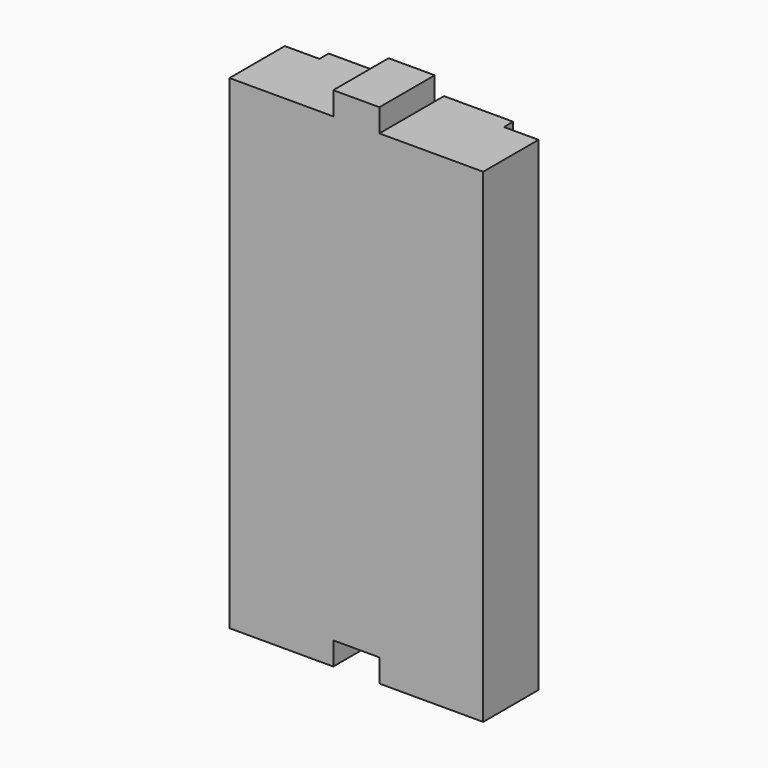
from build123d import *

# Parameters (mm, degrees)
F1_DEPTH = 1066.8
F3_W     = 101.6
F3_H     = 50.8
F4_DEPTH = 152.4
F5_W     = 101.6
F5_H     = 50.8
F6_DEPTH = 177.801


with BuildPart() as f1:
    # F0 (on Top) → F1 (new body)
    with BuildSketch(Plane.XY):
        Polygon((76.2, 0), (0, 0), (0, -152.4), (558.8, -152.4), (558.8, 0), (482.6, 0), (482.6, 25.4), (330.2, 25.4), (330.2, 0), (228.6, 0), (228.6, 25.4), (76.2, 25.4), align=None)
    extrude(amount=F1_DEPTH)

    # F3 (on offset) → F4 (join)
    with BuildSketch(Plane.XZ.offset(152.4)):
        with Locations((279.4, 1092.2)):
            Rectangle(F3_W, F3_H)
    extrude(amount=-F4_DEPTH)

    # F5 (on offset) → F6 (cut, through all)
    with BuildSketch(Plane.XZ.offset(152.4)):
        with Locations((279.4, 25.4)):
            Rectangle(F5_W, F5_H)
    extrude(amount=-F6_DEPTH, mode=Mode.SUBTRACT)


solid = f1.part
